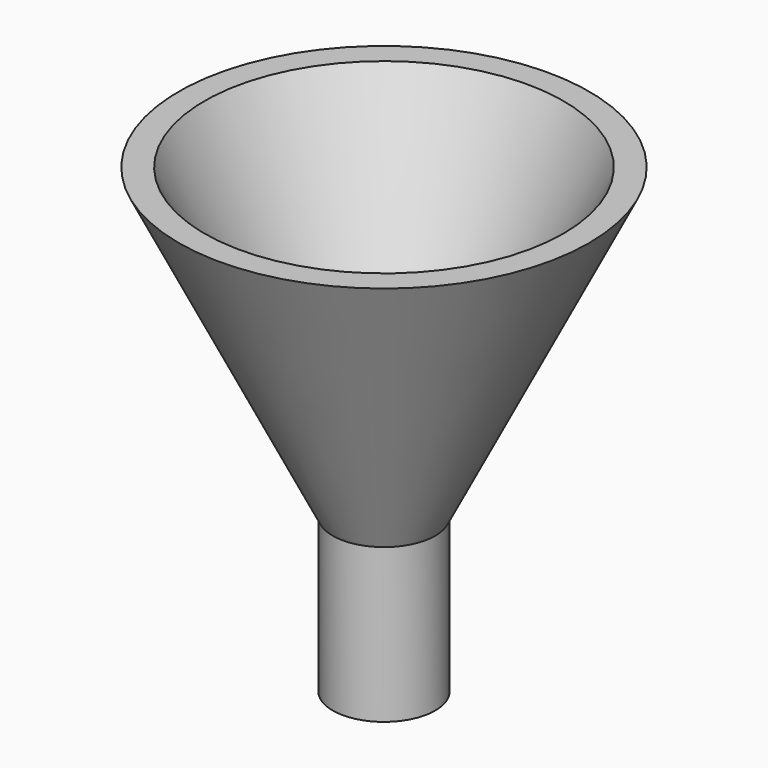
from build123d import *

# Parameters (mm, degrees)
CYLINDER_R        = 1
CYLINDER_DEPTH    = 3
CYLINDER001_R     = 0.5
CYLINDER001_DEPTH = 3


with BuildPart() as cone001:
    # Cone001 → Cone001 (revolve)
    with BuildSketch(Plane(origin=(0, 0, 3), x_dir=(1, 0, 0), z_dir=(0, -1, 0))):
        Polygon((0, 0), (0.5, 0), (3.5, 6), (0, 6), align=None)
    revolve(axis=Axis((0, 0, 3), (0, 0, 1)))


with BuildPart() as cut001:
    # Cone → Cone (revolve)
    with BuildSketch(Plane(origin=(0, 0, 3), x_dir=(1, 0, 0), z_dir=(0, -1, 0))):
        Polygon((0, 0), (1, 0), (4, 6), (0, 6), align=None)
    revolve(axis=Axis((0, 0, 3), (0, 0, 1)))

    # Cut001: cut Cone001
    add(cone001.part, mode=Mode.SUBTRACT)


with BuildPart() as cylinder:
    # Cylinder → Cylinder (new body)
    with BuildSketch(Plane.XY):
        Circle(CYLINDER_R)
    extrude(amount=CYLINDER_DEPTH)


with BuildPart() as cylinder001:
    # Cylinder001 → Cylinder001 (new body)
    with BuildSketch(Plane.XY):
        Circle(CYLINDER001_R)
    extrude(amount=CYLINDER001_DEPTH)


with BuildPart() as fusion:
    # Cut base: copy of Cylinder
    add(cylinder.part)

    # Cut: cut Cylinder001
    add(cylinder001.part, mode=Mode.SUBTRACT)

    # Fusion: union Cut001, Cylinder, Cylinder001
    add(cut001.part)
    add(cylinder.part)
    add(cylinder001.part)


solid = fusion.part
